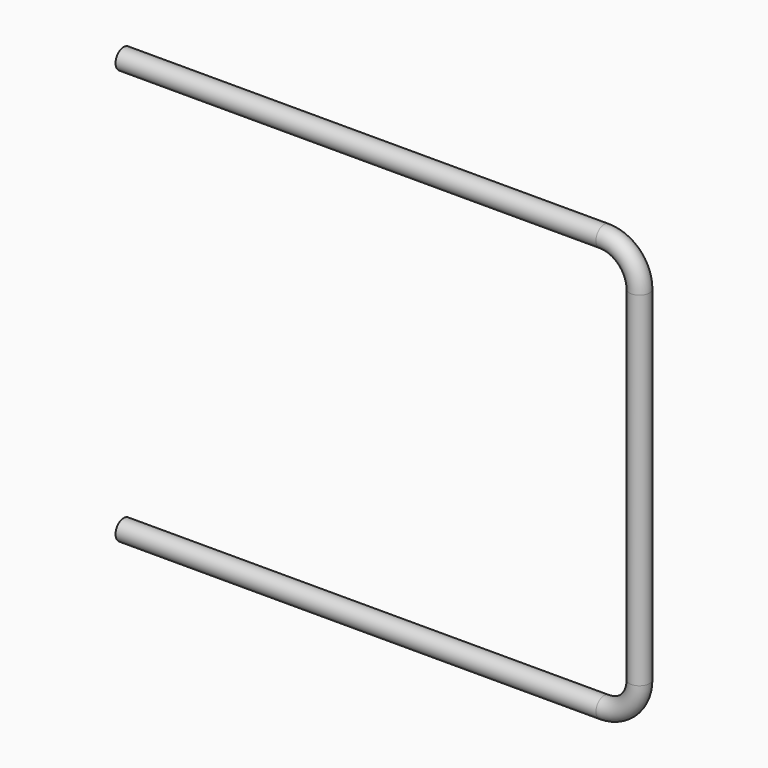
from build123d import *

# Parameters (mm, degrees)
F1_R = 2


with BuildPart() as f2:
    # F2: sweep along a path in F0
    with BuildLine(Plane.XZ) as f2_path:
        Line((0, 82), (95, 82))
        ThreePointArc((95, 82), (99.949747, 79.949747), (102, 75))
        Line((102, 75), (102, 7))
        ThreePointArc((102, 7), (99.949747, 2.050253), (95, 0))
        Line((95, 0), (0, 0))
    # F1 (on Right) → F2 (sweep)
    with BuildSketch(Plane.YZ):
        Circle(F1_R)
    sweep(path=f2_path.line)


solid = f2.part
